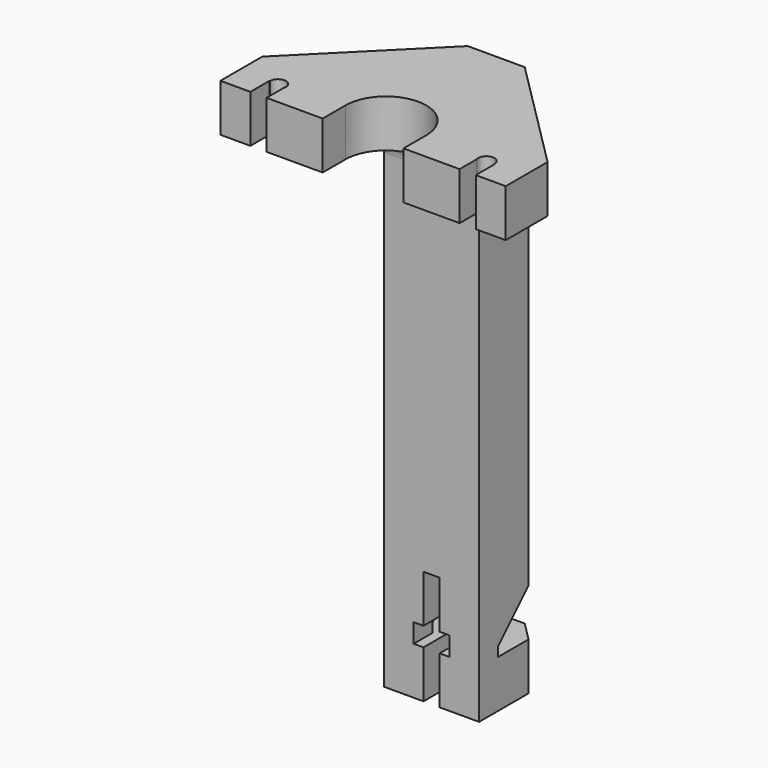
from build123d import *

# Parameters (mm, degrees)
BOX043_W                    = 7.5
BOX043_H                    = 27
BOX043_DEPTH                = 4
CYLINDER043_R               = 8.5
CYLINDER043_DEPTH           = 36
BOX042_W                    = 17
BOX042_H                    = 17
BOX042_DEPTH                = 18
BOX039_W                    = 3.4
BOX039_H                    = 24
BOX039_DEPTH                = 100
CYLINDER042_R               = 1.7
CYLINDER042_DEPTH           = 100
CYLINDER042_PLACEMENT_ANGLE = 45
BOX038_W                    = 3.4
BOX038_H                    = 24
BOX038_DEPTH                = 100
CYLINDER041_R               = 1.7
CYLINDER041_DEPTH           = 100
CYLINDER041_PLACEMENT_ANGLE = 45
BOX037_W                    = 3.4
BOX037_H                    = 24
BOX037_DEPTH                = 56
CYLINDER040_R               = 1.7
CYLINDER040_DEPTH           = 56
CYLINDER040_PLACEMENT_ANGLE = 45
BOX041_W                    = 25
BOX041_H                    = 32
BOX041_DEPTH                = 16
BOX041_PLACEMENT_ANGLE      = 45
BOX040_W                    = 22
BOX040_H                    = 17
BOX040_DEPTH                = 16
BOX035_W                    = 41
BOX035_H                    = 17
BOX035_DEPTH                = 122
BOX035_PLACEMENT_ANGLE      = 45
BOX036_W                    = 20
BOX036_H                    = 42
BOX036_DEPTH                = 124
BOX036_PLACEMENT_ANGLE      = 45
BOX034_W                    = 60
BOX034_H                    = 35
BOX034_DEPTH                = 10
BOX033_W                    = 20
BOX033_H                    = 17
BOX033_DEPTH                = 103
FILLET016_R                 = 4


with BuildPart() as cube039:
    # Box043 → Box043 (new body)
    with BuildSketch(Plane(origin=(-3.75, 11, 33), x_dir=(1, 0, 0), z_dir=(0, 0, 1))):
        with Locations((3.75, 13.5)):
            Rectangle(BOX043_W, BOX043_H)
    extrude(amount=BOX043_DEPTH)


with BuildPart() as cylinder015:
    # Cylinder043 → Cylinder043 (new body)
    with BuildSketch(Plane(origin=(0, 10, 121), x_dir=(1, 0, 0), z_dir=(0, 0, 1))):
        Circle(CYLINDER043_R)
    extrude(amount=CYLINDER043_DEPTH)


with BuildPart() as fusion031:
    # Box042 → Box042 (new body)
    with BuildSketch(Plane(origin=(-8.5, -7, 125), x_dir=(1, 0, 0), z_dir=(0, 0, 1))):
        with Locations((8.5, 8.5)):
            Rectangle(BOX042_W, BOX042_H)
    extrude(amount=BOX042_DEPTH)

    # Fusion031: union Cylinder015
    add(cylinder015.part)


with BuildPart() as fusion031_1:
    # Fusion031 placement: moved
    add(fusion031.part.moved(Location((0, -9, 0))))


with BuildPart() as cube035:
    # Box039 → Box039 (new body)
    with BuildSketch(Plane(origin=(20.3, -24, 50), x_dir=(1, 0, 0), z_dir=(0, 0, 1))):
        with Locations((1.7, 12)):
            Rectangle(BOX039_W, BOX039_H)
    extrude(amount=BOX039_DEPTH)


with BuildPart() as fusion029:
    # Cylinder042 → Cylinder042 (new body)
    with BuildSketch(Plane.XY):
        Circle(CYLINDER042_R)
    extrude(amount=CYLINDER042_DEPTH)


with BuildPart() as fusion029_1:
    # Cylinder042 placement: moved
    add(fusion029.part.moved(Location((21.9203, 0, 50))).rotate(Axis((21.9203, 0, 50), (0, 0, 1)), CYLINDER042_PLACEMENT_ANGLE))

    # Fusion029: union Cube035
    add(cube035.part)


with BuildPart() as cube034:
    # Box038 → Box038 (new body)
    with BuildSketch(Plane(origin=(-23.7, -24, 50), x_dir=(1, 0, 0), z_dir=(0, 0, 1))):
        with Locations((1.7, 12)):
            Rectangle(BOX038_W, BOX038_H)
    extrude(amount=BOX038_DEPTH)


with BuildPart() as fusion030:
    # Cylinder041 → Cylinder041 (new body)
    with BuildSketch(Plane.XY):
        Circle(CYLINDER041_R)
    extrude(amount=CYLINDER041_DEPTH)


with BuildPart() as fusion030_1:
    # Cylinder041 placement: moved
    add(fusion030.part.moved(Location((-21.9203, 0, 50))).rotate(Axis((-21.9203, 0, 50), (0, 0, 1)), CYLINDER041_PLACEMENT_ANGLE))

    # Fusion030: union Cube034
    add(cube034.part)


with BuildPart() as cube033:
    # Box037 → Box037 (new body)
    with BuildSketch(Plane(origin=(-1.7, -2, -3), x_dir=(1, 0, 0), z_dir=(0, 0, 1))):
        with Locations((1.7, 12)):
            Rectangle(BOX037_W, BOX037_H)
    extrude(amount=BOX037_DEPTH)


with BuildPart() as top_slot:
    # Cylinder040 → Cylinder040 (new body)
    with BuildSketch(Plane.XY):
        Circle(CYLINDER040_R)
    extrude(amount=CYLINDER040_DEPTH)


with BuildPart() as top_slot_1:
    # Cylinder040 placement: moved
    add(top_slot.part.moved(Location((0, 21.92031, -3))).rotate(Axis((0, 21.92031, -3), (0, 0, 1)), CYLINDER040_PLACEMENT_ANGLE))

    # Fusion028: union Cube033
    add(cube033.part)


with BuildPart() as top_slot_2:
    # Fusion028 placement: moved
    add(top_slot_1.part.moved(Location((0, 0, -6))))


with BuildPart() as cube037:
    # Box041 → Box041 (new body)
    with BuildSketch(Plane.XY):
        with Locations((12.5, 16)):
            Rectangle(BOX041_W, BOX041_H)
    extrude(amount=BOX041_DEPTH)


with BuildPart() as cube037_1:
    # Box041 placement: moved
    add(cube037.part.moved(Location((-13, 18, 35))).rotate(Axis((-13, 18, 35), (1, 0, 0)), BOX041_PLACEMENT_ANGLE))


with BuildPart() as cut052:
    # Box040 → Box040 (new body)
    with BuildSketch(Plane(origin=(-11, 18, 33), x_dir=(1, 0, 0), z_dir=(0, 0, 1))):
        with Locations((11, 8.5)):
            Rectangle(BOX040_W, BOX040_H)
    extrude(amount=BOX040_DEPTH)

    # Cut052: cut Cube037
    add(cube037_1.part, mode=Mode.SUBTRACT)


with BuildPart() as cube031:
    # Box035 → Box035 (new body)
    with BuildSketch(Plane.XY):
        with Locations((20.5, 8.5)):
            Rectangle(BOX035_W, BOX035_H)
    extrude(amount=BOX035_DEPTH)


with BuildPart() as cube031_1:
    # Box035 placement: moved
    add(cube031.part.moved(Location((-31, 5, 19))).rotate(Axis((-31, 5, 19), (0, 0, 1)), BOX035_PLACEMENT_ANGLE))


with BuildPart() as cube032:
    # Box036 → Box036 (new body)
    with BuildSketch(Plane.XY):
        with Locations((10, 21)):
            Rectangle(BOX036_W, BOX036_H)
    extrude(amount=BOX036_DEPTH)


with BuildPart() as cube032_1:
    # Box036 placement: moved
    add(cube032.part.moved(Location((33, 3, 19))).rotate(Axis((33, 3, 19), (0, 0, 1)), BOX036_PLACEMENT_ANGLE))


with BuildPart() as cube030:
    # Box034 → Box034 (new body)
    with BuildSketch(Plane(origin=(-30, -5, 126), x_dir=(1, 0, 0), z_dir=(0, 0, 1))):
        with Locations((30, 17.5)):
            Rectangle(BOX034_W, BOX034_H)
    extrude(amount=BOX034_DEPTH)


with BuildPart() as obj1:
    # Box033 → Box033 (new body)
    with BuildSketch(Plane(origin=(-10, 13, 23), x_dir=(1, 0, 0), z_dir=(0, 0, 1))):
        with Locations((10, 8.5)):
            Rectangle(BOX033_W, BOX033_H)
    extrude(amount=BOX033_DEPTH)

    # Fusion027: union Cube030
    add(cube030.part)

    # Cut050: cut Cube032
    add(cube032_1.part, mode=Mode.SUBTRACT)

    # Cut051: cut Cube031
    add(cube031_1.part, mode=Mode.SUBTRACT)

    # Cut053: cut Cut052
    add(cut052.part, mode=Mode.SUBTRACT)

    # Cut054: cut top-slot
    add(top_slot_2.part, mode=Mode.SUBTRACT)

    # Cut055: cut Fusion030
    add(fusion030_1.part, mode=Mode.SUBTRACT)

    # Cut056: cut Fusion029
    add(fusion029_1.part, mode=Mode.SUBTRACT)

    # Cut057: cut Fusion031
    add(fusion031_1.part, mode=Mode.SUBTRACT)

    # Cut058: cut Cube039
    add(cube039.part, mode=Mode.SUBTRACT)

    # Fillet016
    fillet016_edges = [obj1.edges().sort_by_distance(p)[0] for p in [
        (0, 13, 126),
    ]]
    fillet(fillet016_edges, radius=FILLET016_R)


solid = obj1.part
